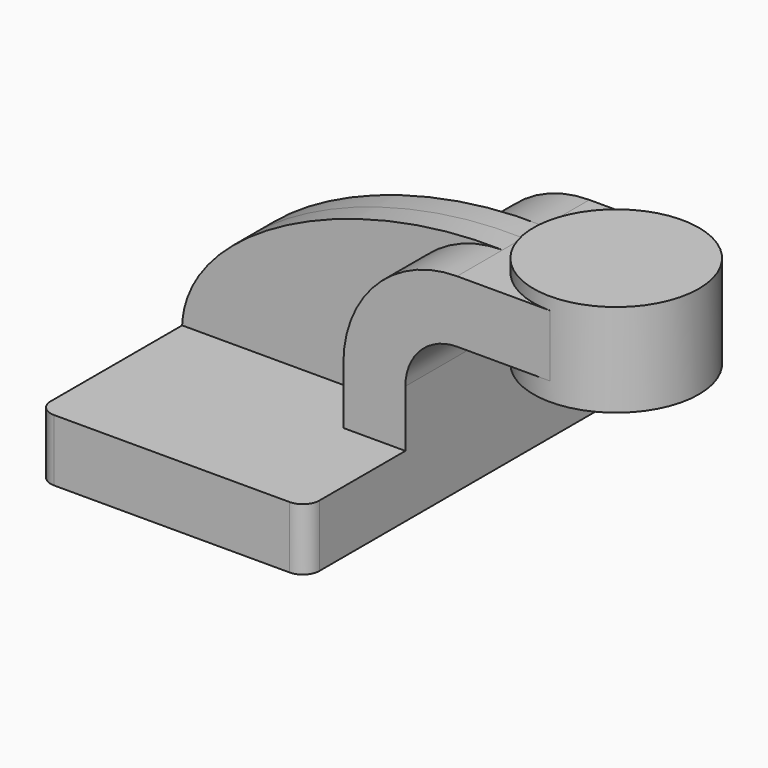
from build123d import *

# Parameters (mm, degrees)
F1_DEPTH = 63.5
F2_DEPTH = 25.4
F4_DEPTH = 7.9375
F5_R     = 5.08


with BuildPart() as f1:
    # F0 (on Front) → F1 (new body, symmetric)
    with BuildSketch(Plane.XZ):
        Polygon((41.275, -9.525), (41.275, 9.525), (22.225, 9.525), (-41.275, 9.525), (-41.275, -9.525), align=None)
    extrude(amount=F1_DEPTH, both=True)

    # F0 (on Front) → F2 (join, symmetric)
    with BuildSketch(Plane.XZ):
        with BuildLine():
            Line((22.225, 9.525), (41.275, 9.525))
            Line((41.275, 9.525), (41.275, 27.0002))
            ThreePointArc((41.275, 27.0002), (45.92468, 38.22552), (57.15, 42.8752))
            Line((57.15, 42.8752), (60.325, 42.8752))
            Line((60.325, 42.8752), (60.325, 61.9252))
            Line((60.325, 61.9252), (57.15, 61.9252))
            ThreePointArc((57.15, 61.9252), (32.454296, 51.695904), (22.225, 27.0002))
            Line((22.225, 27.0002), (22.225, 9.525))
        make_face()
        Polygon((60.325, 61.9252), (60.325, 42.8752), (85.725, 42.8752), (85.725, 51.485013), (85.725, 61.9252), align=None)
    extrude(amount=F2_DEPTH, both=True)

    # F0 (on Front) → F3 (revolve)
    with BuildSketch(Plane.XZ):
        Polygon((85.725, 51.485013), (85.725, 42.8752), (85.725, 37.197513), (111.125, 37.197513), (111.125, 65.772513), (85.725, 65.772513), (85.725, 61.9252), align=None)
    revolve(axis=Axis((85.725, 0, 56.705107), (0, 0, -1)))

    # F0 (on Front) → F4 (join, symmetric)
    with BuildSketch(Plane.XZ):
        with BuildLine():
            Line((-41.275, 9.525), (22.225, 9.525))
            Line((22.225, 9.525), (22.225, 27.0002))
            ThreePointArc((22.225, 27.0002), (32.454296, 51.695904), (57.15, 61.9252))
            add(Edge.make_bspline(
                [(57.15, 61.9252), (9.904783, 63.30175), (-40.170714, 38.131271), (-41.275, 9.525)],
                knots=[0, 0, 0, 0, 111.504536, 111.504536, 111.504536, 111.504536], degree=3))
        make_face()
    extrude(amount=F4_DEPTH, both=True)

    # F5
    f5_edges = [f1.edges().sort_by_distance(p)[0] for p in [
        (41.275, 63.5, 0),
        (-41.275, 63.5, 0),
        (-41.275, -63.5, 0),
        (41.275, -63.5, 0),
    ]]
    fillet(f5_edges, radius=F5_R)


solid = f1.part
